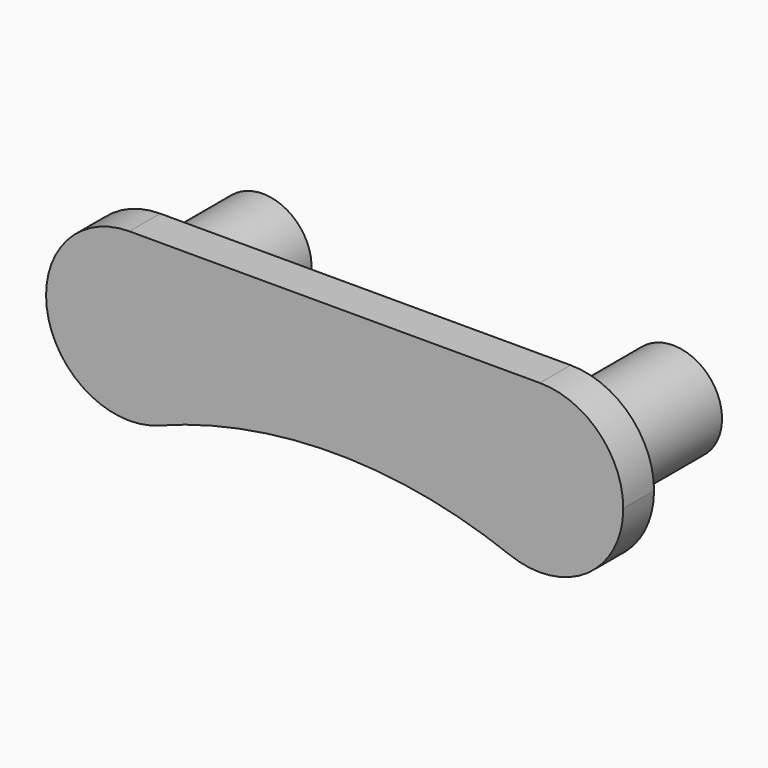
from build123d import *

# Parameters (mm, degrees)
F1_DEPTH = 1.5
F2_R     = 1.9
F2_R_2   = 1.25
F3_DEPTH = 5


with BuildPart() as f1:
    # F0 (on Front) → F1 (new body)
    with BuildSketch(Plane.XZ):
        with BuildLine():
            ThreePointArc((1.168539, -3.032658), (2.679576, -1.839123), (3.25, 0))
            ThreePointArc((3.25, 0), (2.298097, 2.298097), (0, 3.25))
            ThreePointArc((0, 3.25), (-3.195203, -0.59429), (1.168539, -3.032658))
        make_face()
        with BuildLine():
            ThreePointArc((0, 3.25), (2.298097, 2.298097), (3.25, 0))
            ThreePointArc((3.25, 0), (2.679576, -1.839123), (1.168539, -3.032658))
            ThreePointArc((1.168539, -3.032658), (8, -1.762045), (14.831461, -3.032658))
            ThreePointArc((14.831461, -3.032658), (12.804797, 0.59429), (16, 3.25))
            Line((16, 3.25), (0, 3.25))
        make_face()
        with BuildLine():
            ThreePointArc((19.25, 0), (18.298097, 2.298097), (16, 3.25))
            ThreePointArc((16, 3.25), (12.804797, 0.59429), (14.831461, -3.032658))
            ThreePointArc((14.831461, -3.032658), (17.839123, -2.679576), (19.25, 0))
        make_face()
    extrude(amount=F1_DEPTH)

    # F2 (on face) → F3 (join)
    with BuildSketch(Plane(origin=(0, 0, 0), x_dir=(-1, 0, 0), z_dir=(0, 1, 0))):
        with Locations((-16, 0)):
            Circle(F2_R)
        with Locations((-16, 0)):
            Circle(F2_R_2, mode=Mode.SUBTRACT)
        Circle(F2_R)
        Circle(F2_R_2, mode=Mode.SUBTRACT)
    extrude(amount=F3_DEPTH)


solid = f1.part
